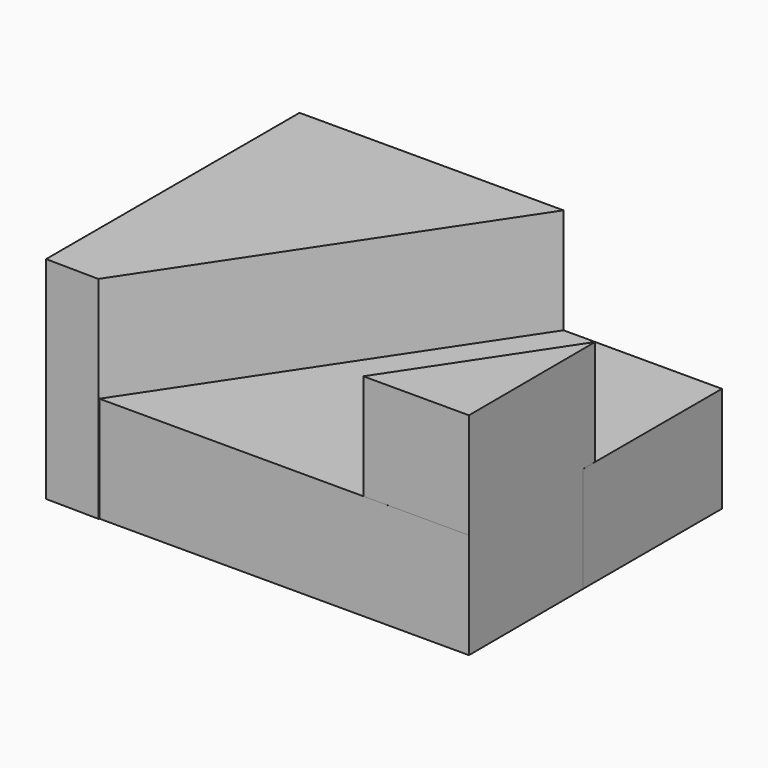
from build123d import *

# Parameters (mm, degrees)
F0_W     = 50.8
F0_H     = 12.7
F1_DEPTH = 38.1
F3_DEPTH = 25.4
F5_DEPTH = 25.4


with BuildPart() as f1:
    # F0 (on Front) → F1 (new body)
    with BuildSketch(Plane.XZ):
        with Locations((25.4, 6.35)):
            Rectangle(F0_W, F0_H)
    extrude(amount=F1_DEPTH)

    # F2 (on Top) → F3 (join)
    with BuildSketch(Plane.XY):
        Polygon((0, -38.1), (6.3494, -38.18728), (31.75, 0), (0, 0), align=None)
    extrude(amount=F3_DEPTH)

    # F4 (on Top) → F5 (join)
    with BuildSketch(Plane.XY):
        Polygon((50.857455, -38.099894), (50.793955, -19.05), (38.157455, -38.099894), align=None)
    extrude(amount=F5_DEPTH)


solid = f1.part
